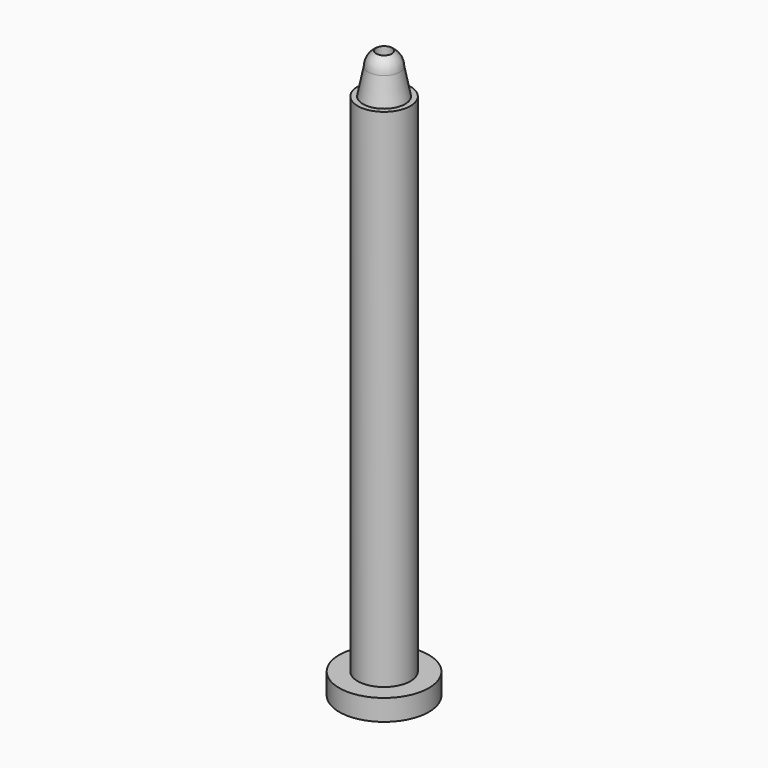
from build123d import *

# Parameters (mm, degrees)
F0_R     = 8.5
F1_DEPTH = 4
F2_R     = 5
F3_DEPTH = 100
F8_R     = 1.5
F9_DEPTH = 123.9


with BuildPart() as f1:
    # F0 (on Top) → F1 (new body)
    with BuildSketch(Plane.XY):
        Circle(F0_R)
    extrude(amount=F1_DEPTH)

    # F2 (on Top) → F3 (join)
    with BuildSketch(Plane.XY):
        Circle(F2_R)
    extrude(amount=F3_DEPTH)

    # F4 (on Right) → F5 (revolve)
    with BuildSketch(Plane.YZ):
        Polygon((3, 105), (0, 105), (0, 100), (4, 100), align=None)
    revolve(axis=Axis((0, 0, 102.5), (0, 0, -1)))

    # F6 (on Right) → F7 (revolve)
    with BuildSketch(Plane.YZ):
        with BuildLine():
            ThreePointArc((3, 105), (2.12132, 107.12132), (0, 108))
            Line((0, 108), (0, 105))
            Line((0, 105), (3, 105))
        make_face()
    revolve(axis=Axis((0, 0, 106.5), (0, 0, -1)))

    # F8 (on face) → F9 (cut)
    with BuildSketch(Plane(origin=(0, 0, 0), x_dir=(1, 0, 0), z_dir=(0, 0, -1))):
        Circle(F8_R)
    extrude(amount=-F9_DEPTH, mode=Mode.SUBTRACT)


solid = f1.part
